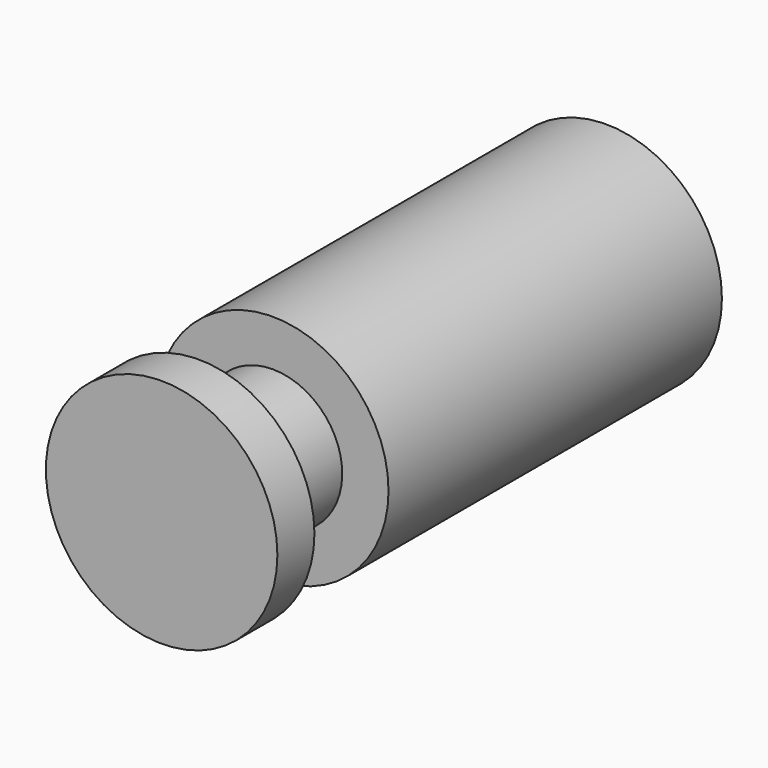
from build123d import *

# Parameters (mm, degrees)
F0_R     = 31.75
F1_DEPTH = 152.4
F2_W     = 25.4
F2_H     = 12.7


with BuildPart() as f1:
    # F0 (on Front) → F1 (new body)
    with BuildSketch(Plane.XZ):
        Circle(F0_R)
    extrude(amount=-F1_DEPTH)

    # F2 (on Right) → F3 (revolve, cut)
    with BuildSketch(Plane.YZ):
        with Locations((25.4, 25.4)):
            Rectangle(F2_W, F2_H)
    revolve(axis=Axis((0, 76.5412002802, 0), (0, 1, 0)), mode=Mode.SUBTRACT)


solid = f1.part
